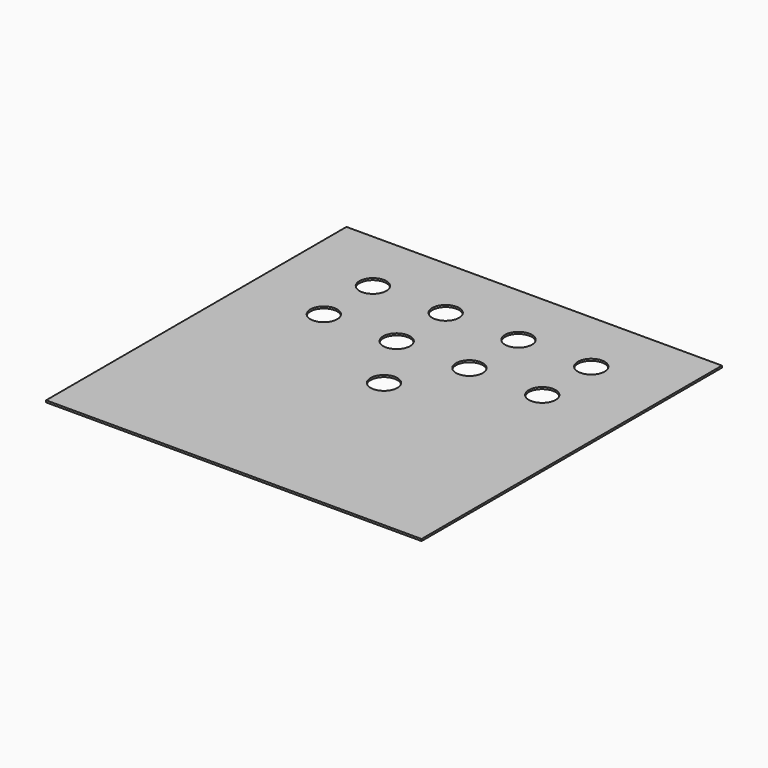
from build123d import *

# Parameters (mm, degrees)
F0_W     = 311.15
F0_H     = 311.15
F1_DEPTH = 1.5875
F2_R     = 11.1125
F3_DEPTH = 1.5885


with BuildPart() as f1:
    # F0 (on Top) → F1 (new body)
    with BuildSketch(Plane.XY):
        Rectangle(F0_W, F0_H)
    extrude(amount=F1_DEPTH)

    # F2 (on face) → F3 (cut, through all)
    with BuildSketch(Plane.XY.offset(1.5875)):
        with Locations((-90.4875, 101.6)):
            Circle(F2_R)
        with Locations((-90.4875, 50.8)):
            Circle(F2_R)
        with Locations((-30.1625, 50.8)):
            Circle(F2_R)
        with Locations((-30.1625, 101.6)):
            Circle(F2_R)
        with Locations((30.1625, 101.6)):
            Circle(F2_R)
        with Locations((30.1625, 50.8)):
            Circle(F2_R)
        Circle(F2_R)
        with Locations((90.4875, 101.6)):
            Circle(F2_R)
        with Locations((90.4875, 50.8)):
            Circle(F2_R)
    extrude(amount=-F3_DEPTH, mode=Mode.SUBTRACT)


solid = f1.part
